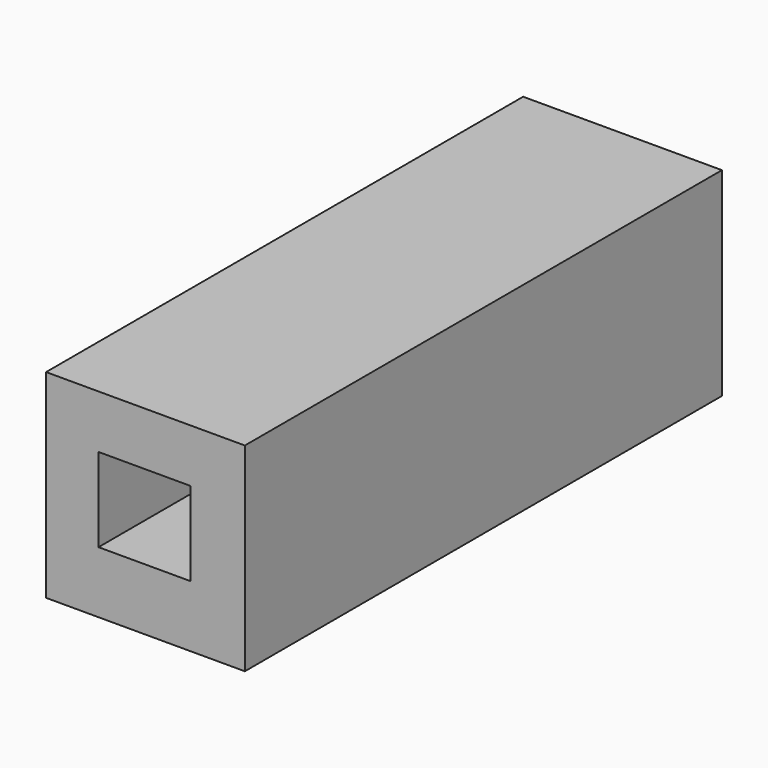
from build123d import *

# Parameters (mm, degrees)
F0_W     = 10
F0_H     = 10
F0_W_2   = 4.63939
F0_H_2   = 4.217628
F1_DEPTH = 15


with BuildPart() as f1:
    # F0 (on Front) → F1 (new body, symmetric)
    with BuildSketch(Plane.XZ):
        with Locations((-12.142848, 20.394608)):
            Rectangle(F0_W, F0_H)
        with Locations((-12.185742, 20.606382)):
            Rectangle(F0_W_2, F0_H_2, mode=Mode.SUBTRACT)
    extrude(amount=F1_DEPTH, both=True)


solid = f1.part
